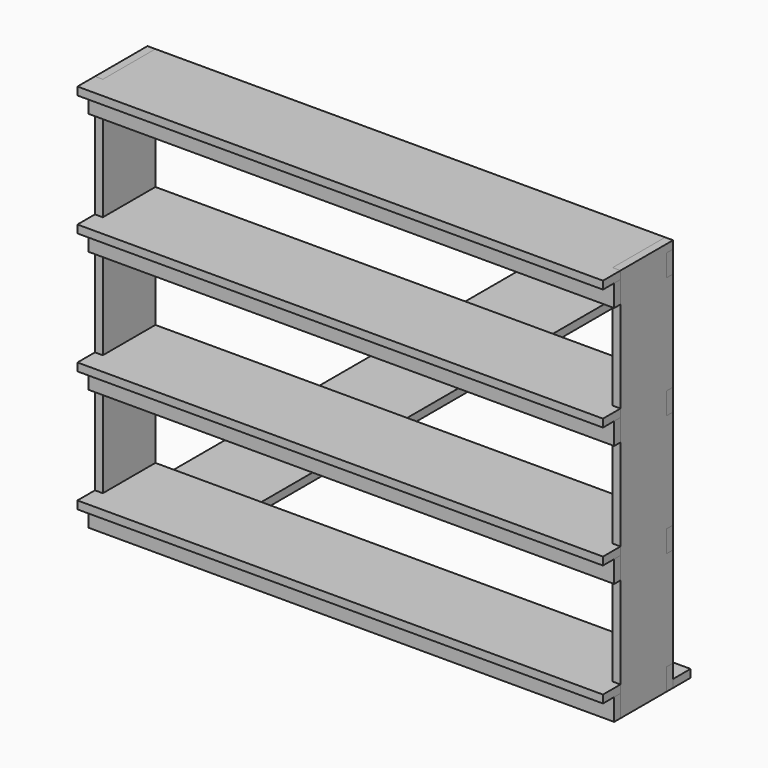
from build123d import *

# Parameters (mm, degrees)
CLONE2D002_W             = 1200
CLONE2D002_H             = 50
PAD002_DEPTH             = 18
PAD_DEPTH                = 18
PAD001_DEPTH             = 18
CLONE_PLACEMENT_ANGLE    = 90
CLONE006_ROLL_ANGLE      = 90
CLONE006_PLACEMENT_ANGLE = -90
CLONE010_PLACEMENT_ANGLE = 270


with BuildPart() as body_rib_template:
    # Clone2D002 → Pad002 (new body)
    with BuildSketch(Plane.XY):
        with Locations((600, 25)):
            Rectangle(CLONE2D002_W, CLONE2D002_H)
    extrude(amount=PAD002_DEPTH)


with BuildPart() as body_side_template:
    # Clone2D → Pad (new body)
    with BuildSketch(Plane.XY):
        Polygon((18, 0), (150, 0), (150, 900), (0, 900), (0, 882), (18, 882), (18, 832), (0, 832), (0, 604.666667), (18, 604.666667), (18, 554.666667), (0, 554.666667), (0, 327.333333), (18, 327.333333), (18, 277.333333), (0, 277.333333), (0, 50), (18, 50), align=None)
    extrude(amount=PAD_DEPTH)


with BuildPart() as body_shelf_template:
    # Clone2D001 → Pad001 (new body)
    with BuildSketch(Plane.XY):
        Polygon((150, 0), (200, 0), (200, 1200), (150, 1200), (150, 1182), (0, 1182), (0, 18), (150, 18), align=None)
    extrude(amount=PAD001_DEPTH)


with BuildPart() as body_rib_template001:
    # Clone base: copy of Body_Rib_Template
    add(body_rib_template.part)


with BuildPart() as body_rib_template001_1:
    # Clone placement: moved
    add(body_rib_template001.part.moved(Location((0, -150, 554.666667))).rotate(Axis((0, -150, 554.666667), (1, 0, 0)), CLONE_PLACEMENT_ANGLE))


with BuildPart() as body_rib_template002:
    # Clone001 base: copy of Body_Rib_Template001
    add(body_rib_template001_1.part)


with BuildPart() as body_rib_template002_1:
    # Clone001 placement: moved
    add(body_rib_template002.part.moved(Location((0, 150, -554.666667))))


with BuildPart() as body_rib_template003:
    # Clone002 base: copy of Body_Rib_Template002
    add(body_rib_template002_1.part)


with BuildPart() as body_rib_template003_1:
    # Clone002 placement: moved
    add(body_rib_template003.part.moved(Location((0, 0, 277.333333))))


with BuildPart() as body_rib_template004:
    # Clone003 base: copy of Body_Rib_Template003
    add(body_rib_template003_1.part)


with BuildPart() as body_rib_template004_1:
    # Clone003 placement: moved
    add(body_rib_template004.part.moved(Location((0, 0, 277.333333))))


with BuildPart() as body_rib_template005:
    # Clone004 base: copy of Body_Rib_Template004
    add(body_rib_template004_1.part)


with BuildPart() as body_rib_template005_1:
    # Clone004 placement: moved
    add(body_rib_template005.part.moved(Location((0, 0, 277.333333))))


with BuildPart() as body_rib_template006:
    # Clone005 base: copy of Body_Rib_Template005
    add(body_rib_template005_1.part)


with BuildPart() as body_rib_template006_1:
    # Clone005 placement: moved
    add(body_rib_template006.part.moved(Location((0, -150, 0))))


with BuildPart() as body_side_template001:
    # Clone006 base: copy of Body_Side_Template
    add(body_side_template.part)


with BuildPart() as body_side_template001_1:
    # Clone006 roll: moved
    add(body_side_template001.part.rotate(Axis((0, 0, 0), (1, 0, 0)), CLONE006_ROLL_ANGLE))


with BuildPart() as body_side_template001_2:
    # Clone006 placement: moved
    add(body_side_template001_1.part.moved(Location((18, 0, 0))).rotate(Axis((18, 0, 0), (0, 0, 1)), CLONE006_PLACEMENT_ANGLE))


with BuildPart() as body_side_template002:
    # Clone007 base: copy of Body_Side_Template001
    add(body_side_template001_2.part)


with BuildPart() as body_side_template002_1:
    # Clone007 placement: moved
    add(body_side_template002.part.moved(Location((1182, 0, 0))))


with BuildPart() as body_rib_template007:
    # Clone008 base: copy of Body_Rib_Template006
    add(body_rib_template006_1.part)


with BuildPart() as body_rib_template007_1:
    # Clone008 placement: moved
    add(body_rib_template007.part.moved(Location((0, 0, -554.666667))))


with BuildPart() as body_rib_template008:
    # Clone009 base: copy of Body_Rib_Template007
    add(body_rib_template007_1.part)


with BuildPart() as body_rib_template008_1:
    # Clone009 placement: moved
    add(body_rib_template008.part.moved(Location((0, 0, -277.333333))))


with BuildPart() as body_shelf_template001:
    # Clone010 base: copy of Body_Shelf_Template
    add(body_shelf_template.part)


with BuildPart() as body_shelf_template001_1:
    # Clone010 placement: moved
    add(body_shelf_template001.part.moved(Location((0, 0, 327.333333))).rotate(Axis((0, 0, 327.333333), (0, 0, 1)), CLONE010_PLACEMENT_ANGLE))


with BuildPart() as body_shelf_template002:
    # Clone011 base: copy of Body_Shelf_Template001
    add(body_shelf_template001_1.part)


with BuildPart() as body_shelf_template002_1:
    # Clone011 placement: moved
    add(body_shelf_template002.part.moved(Location((0, 0, 277.333333))))


with BuildPart() as body_shelf_template003:
    # Clone012 base: copy of Body_Shelf_Template002
    add(body_shelf_template002_1.part)


with BuildPart() as body_shelf_template003_1:
    # Clone012 placement: moved
    add(body_shelf_template003.part.moved(Location((0, 0, 277.333333))))


with BuildPart() as body_shelf_template004:
    # Clone013 base: copy of Body_Shelf_Template003
    add(body_shelf_template003_1.part)


with BuildPart() as body_shelf_template004_1:
    # Clone013 placement: moved
    add(body_shelf_template004.part.moved(Location((0, 0, -832))))


solid = Compound([body_rib_template.part, body_side_template.part, body_shelf_template.part, body_rib_template001_1.part, body_rib_template002_1.part, body_rib_template003_1.part, body_rib_template004_1.part, body_rib_template005_1.part, body_rib_template006_1.part, body_side_template001_2.part, body_side_template002_1.part, body_rib_template007_1.part, body_rib_template008_1.part, body_shelf_template001_1.part, body_shelf_template002_1.part, body_shelf_template003_1.part, body_shelf_template004_1.part])
